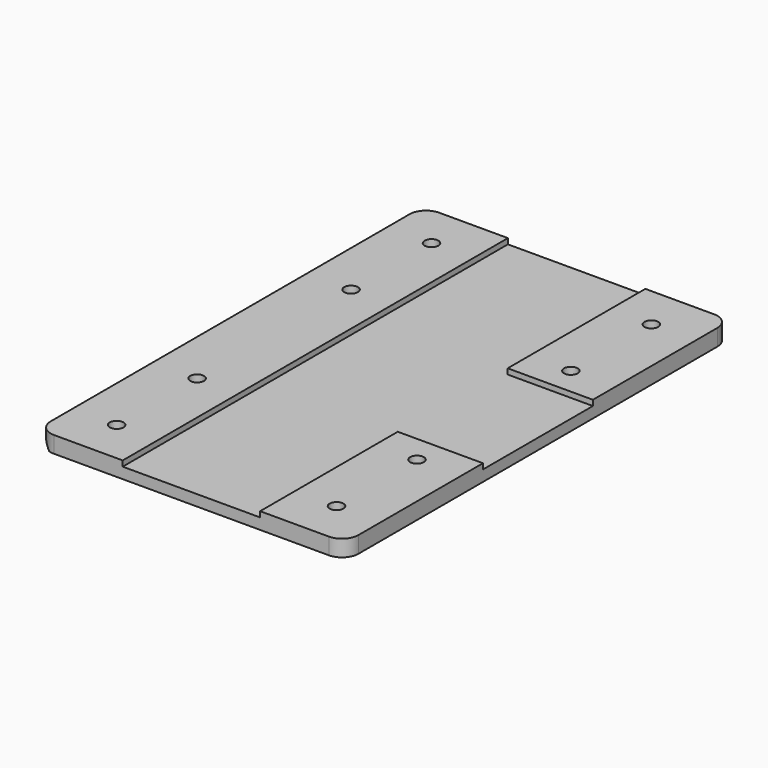
from build123d import *

# Parameters (mm, degrees)
F0_W     = 56
F0_H     = 87.6
F1_DEPTH = 3
F2_SIZE  = 2
F3_W     = 15.5
F3_H     = 25
F4_DEPTH = 1
F5_R     = 3
F8_D     = 2.5
F8_DEPTH = 68
F8_TIP   = 0.7510757738


with BuildPart() as f1:
    # F0 (on Top) → F1 (new body)
    with BuildSketch(Plane.XY):
        Rectangle(F0_W, F0_H)
    extrude(amount=F1_DEPTH)

    # F2
    f2_edges = [f1.edges().sort_by_distance(p)[0] for p in [
        (-28, 0, 0),
    ]]
    chamfer(f2_edges, length=F2_SIZE)

    # F3 (on face) → F4 (cut)
    with BuildSketch(Plane.XY.offset(3)):
        Polygon((12.5, 43.8), (-12.5, 43.8), (-12.5, -43.8), (12.5, -43.8), (12.5, -12.5), (12.5, 12.5), align=None)
        with Locations((20.25, 0)):
            Rectangle(F3_W, F3_H)
    extrude(amount=-F4_DEPTH, mode=Mode.SUBTRACT)

    # F5
    f5_edges = [f1.edges().sort_by_distance(p)[0] for p in [
        (-28, 43.8, 2.5),
        (-28, -43.8, 2.5),
        (28, -43.8, 1.5),
        (28, 43.8, 1.5),
    ]]
    fillet(f5_edges, radius=F5_R)

    # F8
    with Locations(Plane.XY.offset(3)):
        with Locations((-20, 35.8), (20, 35.8), (20, 17.5), (20, -17.5), (20, -35.8), (-20, -35.8), (-20, 17.5), (-20, -17.5)):
            Hole(F8_D / 2, depth=F8_DEPTH)
            with Locations((0, 0, -(F8_DEPTH + F8_TIP / 2))):  # 118° drill point
                Cone(0, F8_D / 2, F8_TIP, mode=Mode.SUBTRACT)


solid = f1.part
